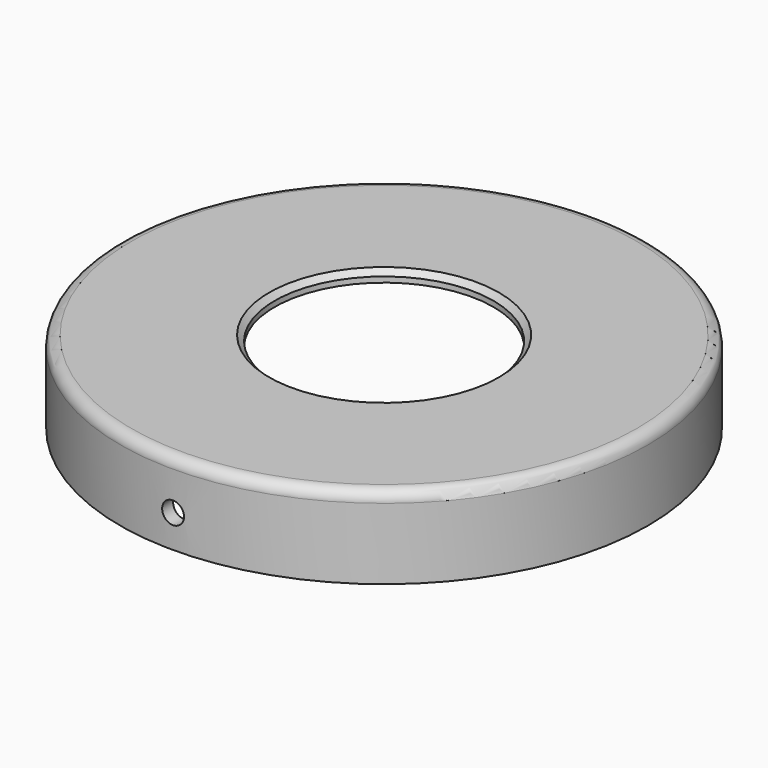
from build123d import *

# Parameters (mm, degrees)
SKETCH_R        = 48.25
PAD_DEPTH       = 15
SKETCH001_R     = 45.75
POCKET_DEPTH    = 13
SKETCH002_R     = 2
POCKET001_DEPTH = 50
SKETCH003_R     = 20
POCKET002_DEPTH = 2
FILLET_R        = 2
CHAMFER_SIZE    = 1


with BuildPart() as part:
    # Sketch → Pad (new body)
    with BuildSketch(Plane.XY):
        Circle(SKETCH_R)
    extrude(amount=PAD_DEPTH)

    # Sketch001 (on Face2 of Pad) → Pocket (cut)
    with BuildSketch(Plane(origin=(0, 0, 0), x_dir=(1, 0, 0), z_dir=(0, 0, -1))):
        Circle(SKETCH001_R)
    extrude(amount=-POCKET_DEPTH, mode=Mode.SUBTRACT)

    # Sketch002 → Pocket001 (cut, symmetric)
    with BuildSketch(Plane.XZ):
        with Locations((0, 6)):
            Circle(SKETCH002_R)
    extrude(amount=POCKET001_DEPTH, both=True, mode=Mode.SUBTRACT)

    # Sketch003 (on Face3 of Pocket001) → Pocket002 (cut)
    with BuildSketch(Plane.XY.offset(15)):
        Circle(SKETCH003_R)
    extrude(amount=-POCKET002_DEPTH, mode=Mode.SUBTRACT)

    # Fillet
    fillet_edges = [part.edges().sort_by_distance(p)[0] for p in [
        (-48.25, 0, 15),
    ]]
    fillet(fillet_edges, radius=FILLET_R)

    # Chamfer
    chamfer_edges = [part.edges().sort_by_distance(p)[0] for p in [
        (-20, 0, 15),
    ]]
    chamfer(chamfer_edges, length=CHAMFER_SIZE)


solid = part.part
